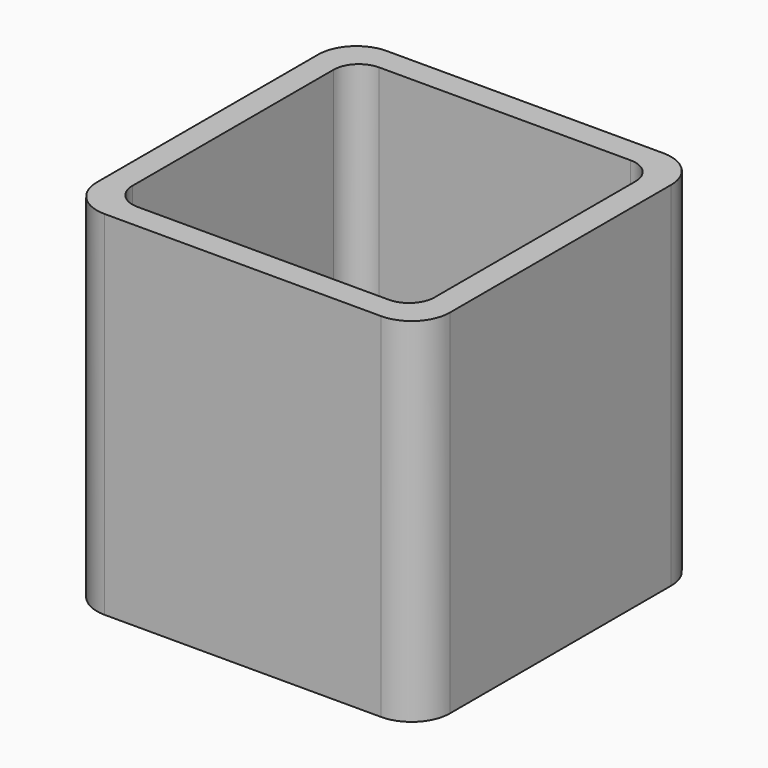
from build123d import *

# Parameters (mm, degrees)
EXTRUDE_DEPTH = 50


with BuildPart() as part:
    # Sketch → Extrude (new body)
    with BuildSketch(Plane.XY):
        with BuildLine():
            Line((-19.6, 25), (19.6, 25))
            ThreePointArc((25, 19.6), (23.418377, 23.418377), (19.6, 25))
            Line((25, 19.6), (25, -19.6))
            ThreePointArc((19.6, -25), (23.418377, -23.418377), (25, -19.6))
            Line((19.6, -25), (-19.6, -25))
            ThreePointArc((-25, -19.6), (-23.418377, -23.418377), (-19.6, -25))
            Line((-25, -19.6), (-25, 19.6))
            ThreePointArc((-19.6, 25), (-23.418377, 23.418377), (-25, 19.6))
        make_face()
        with BuildLine():
            Line((-17.8, 21.4), (17.8, 21.4))
            ThreePointArc((21.4, 17.8), (20.345584, 20.345584), (17.8, 21.4))
            Line((21.4, 17.8), (21.4, -17.8))
            ThreePointArc((17.8, -21.4), (20.345584, -20.345584), (21.4, -17.8))
            Line((17.8, -21.4), (-17.8, -21.4))
            ThreePointArc((-21.4, -17.8), (-20.345584, -20.345584), (-17.8, -21.4))
            Line((-21.4, -17.8), (-21.4, 17.8))
            ThreePointArc((-17.8, 21.4), (-20.345584, 20.345584), (-21.4, 17.8))
        make_face(mode=Mode.SUBTRACT)
    extrude(amount=EXTRUDE_DEPTH)


solid = part.part
